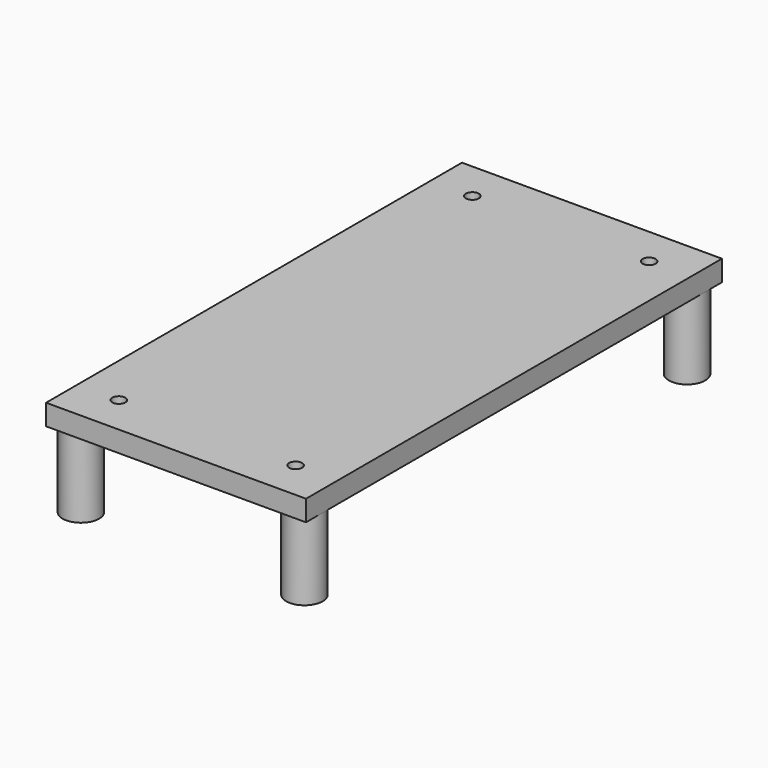
from build123d import *

# Parameters (mm, degrees)
F2_R            = 3.5
F3_DEPTH        = 4
F4_D            = 2.5
F4_CBORE_D      = 4.5
F4_CBORE_DEPTH  = 2
F5_DEPTH        = 15
F7_D            = 3
F7_DEPTH        = 13.5
F7_CSINK_D      = 4
F7_CSINK_ANGLE  = 90
F7_TIP          = 0.9012909285
F9_D            = 3
F9_DEPTH        = 13.5
F9_CSINK_D      = 4
F9_CSINK_ANGLE  = 90
F9_TIP          = 0.9012909285
F11_D           = 3
F11_DEPTH       = 13.5
F11_CSINK_D     = 4
F11_CSINK_ANGLE = 90
F11_TIP         = 0.9012909285
F13_D           = 3
F13_DEPTH       = 13.5
F13_CSINK_D     = 4
F13_CSINK_ANGLE = 90
F13_TIP         = 0.9012909285


with BuildPart() as f3:
    # F2 (on Top) → F3 (new body)
    with BuildSketch(Plane.XY):
        Polygon((27.5709562153, 77.495081059), (-22.4290437847, 77.495081059), (-22.4290437847, 73.495081059), (-22.4290437847, -18.5049188996), (-22.4290437847, -22.504918941), (27.5709562153, -22.504918941), (27.5709562153, -18.504918941), (27.5709562153, 73.495081059), align=None)
        with BuildLine():
            ThreePointArc((-15.4290437847, -18.504918941), (-18.9290438054, -22.004918941), (-22.4290437847, -18.5049188996))
            ThreePointArc((-22.4290437847, -18.5049188996), (-18.9290437641, -15.004918941), (-15.4290437847, -18.504918941))
        make_face(mode=Mode.SUBTRACT)
        with Locations((24.0709562153, -18.504918941)):
            Circle(F2_R, mode=Mode.SUBTRACT)
        with BuildLine():
            ThreePointArc((-15.4290437847, 73.495081059), (-18.9290437847, 69.995081059), (-22.4290437847, 73.495081059))
            ThreePointArc((-22.4290437847, 73.495081059), (-18.9290437847, 76.995081059), (-15.4290437847, 73.495081059))
        make_face(mode=Mode.SUBTRACT)
        with Locations((24.0709562153, 73.495081059)):
            Circle(F2_R, mode=Mode.SUBTRACT)
        with BuildLine():
            ThreePointArc((-15.4290437847, -18.504918941), (-18.9290437641, -15.004918941), (-22.4290437847, -18.5049188996))
            ThreePointArc((-22.4290437847, -18.5049188996), (-18.9290438054, -22.004918941), (-15.4290437847, -18.504918941))
        make_face()
        with Locations((24.0709562153, -18.504918941)):
            Circle(F2_R)
        with BuildLine():
            ThreePointArc((-15.4290437847, 73.495081059), (-18.9290437847, 76.995081059), (-22.4290437847, 73.495081059))
            ThreePointArc((-22.4290437847, 73.495081059), (-18.9290437847, 69.995081059), (-15.4290437847, 73.495081059))
        make_face()
        with Locations((24.0709562153, 73.495081059)):
            Circle(F2_R)
    extrude(amount=F3_DEPTH)

    # F4 (through all)
    with Locations(Plane(origin=(0, 0, 0), x_dir=(1, 0, 0), z_dir=(0, 0, -1))):
        with Locations((19.5709562153, -69.995081059), (19.5709562153, 15.004918941), (-14.4290437847, 15.004918941), (-14.4290437847, -69.995081059)):
            CounterBoreHole(F4_D / 2, F4_CBORE_D / 2, F4_CBORE_DEPTH)

    # F2 (on Top) → F5 (join)
    with BuildSketch(Plane.XY):
        with BuildLine():
            ThreePointArc((-15.4290437847, -18.504918941), (-18.9290437641, -15.004918941), (-22.4290437847, -18.5049188996))
            ThreePointArc((-22.4290437847, -18.5049188996), (-18.9290438054, -22.004918941), (-15.4290437847, -18.504918941))
        make_face()
        with Locations((24.0709562153, -18.504918941)):
            Circle(F2_R)
        with BuildLine():
            ThreePointArc((-15.4290437847, 73.495081059), (-18.9290437847, 76.995081059), (-22.4290437847, 73.495081059))
            ThreePointArc((-22.4290437847, 73.495081059), (-18.9290437847, 69.995081059), (-15.4290437847, 73.495081059))
        make_face()
        with Locations((24.0709562153, 73.495081059)):
            Circle(F2_R)
    extrude(amount=-F5_DEPTH)

    # F7
    with Locations(Plane(origin=(0, 0, -15), x_dir=(1, 0, 0), z_dir=(0, 0, -1))):
        with Locations((-18.9290437847, -73.495081059)):
            CounterSinkHole(F7_D / 2, F7_CSINK_D / 2, depth=F7_DEPTH, counter_sink_angle=F7_CSINK_ANGLE)
            with Locations((0, 0, -(F7_DEPTH + F7_TIP / 2))):  # 118° drill point
                Cone(0, F7_D / 2, F7_TIP, mode=Mode.SUBTRACT)

    # F9
    with Locations(Plane(origin=(0, 0, -15), x_dir=(1, 0, 0), z_dir=(0, 0, -1))):
        with Locations((-18.9290437847, 18.504918941)):
            CounterSinkHole(F9_D / 2, F9_CSINK_D / 2, depth=F9_DEPTH, counter_sink_angle=F9_CSINK_ANGLE)
            with Locations((0, 0, -(F9_DEPTH + F9_TIP / 2))):  # 118° drill point
                Cone(0, F9_D / 2, F9_TIP, mode=Mode.SUBTRACT)

    # F11
    with Locations(Plane(origin=(0, 0, -15), x_dir=(1, 0, 0), z_dir=(0, 0, -1))):
        with Locations((24.0709562153, -73.495081059)):
            CounterSinkHole(F11_D / 2, F11_CSINK_D / 2, depth=F11_DEPTH, counter_sink_angle=F11_CSINK_ANGLE)
            with Locations((0, 0, -(F11_DEPTH + F11_TIP / 2))):  # 118° drill point
                Cone(0, F11_D / 2, F11_TIP, mode=Mode.SUBTRACT)

    # F13
    with Locations(Plane(origin=(0, 0, -15), x_dir=(1, 0, 0), z_dir=(0, 0, -1))):
        with Locations((24.0709562153, 18.504918941)):
            CounterSinkHole(F13_D / 2, F13_CSINK_D / 2, depth=F13_DEPTH, counter_sink_angle=F13_CSINK_ANGLE)
            with Locations((0, 0, -(F13_DEPTH + F13_TIP / 2))):  # 118° drill point
                Cone(0, F13_D / 2, F13_TIP, mode=Mode.SUBTRACT)


solid = f3.part
